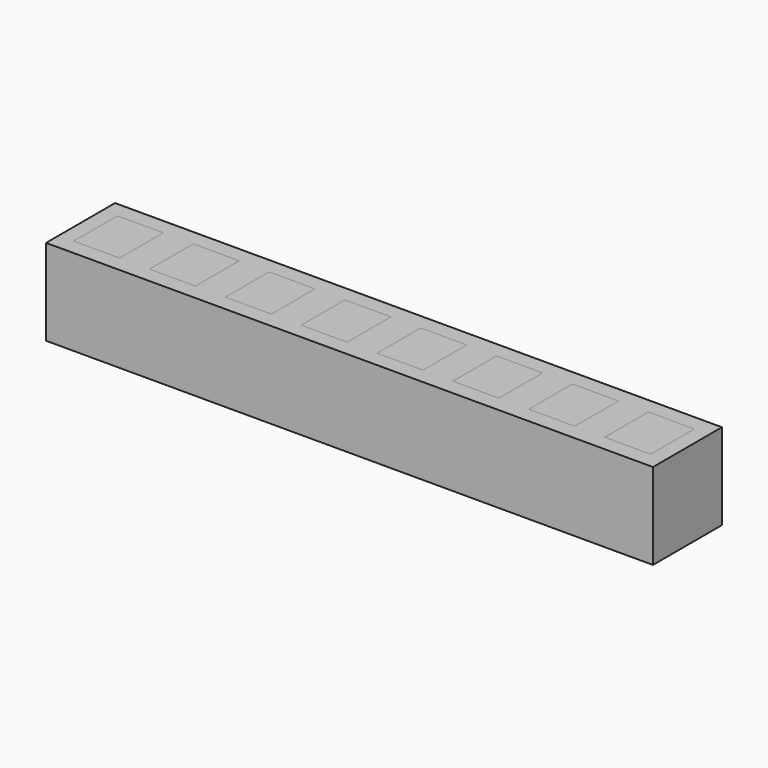
from build123d import *

# Parameters (mm, degrees)
F0_W      = 5.588
F0_H      = 6.35
F0_W_2    = 3.384714
F0_H_2    = 4.02789
F1_DEPTH  = 6.35
F2_W      = 3.384714
F2_H      = 4.02789
F3_DEPTH  = 5.842
F3_FACE_W = 3.384714
F3_FACE_H = 4.02789
F4_DEPTH  = 0.508
F5_DEPTH  = 6.35
F6_W      = 3.384714
F6_H      = 4.02789
F7_DEPTH  = 1.27


with BuildPart() as f1:
    # F0 (on Top) → F1 (new body)
    with BuildSketch(Plane.XY):
        Rectangle(F0_W, F0_H)
        Rectangle(F0_W_2, F0_H_2, mode=Mode.SUBTRACT)
    extrude(amount=F1_DEPTH)


with BuildPart() as f3:
    # F2 (on face) → F3 (new body)
    with BuildSketch(Plane.XY.offset(6.35)):
        Rectangle(F2_W, F2_H)
    extrude(amount=-F3_DEPTH)


with BuildPart() as f4:
    # F3_face (on face) → F4 (new body)
    with BuildSketch(Plane(origin=(0, 0, 0.508), x_dir=(1, 0, 0), z_dir=(0, 0, -1))):
        Rectangle(F3_FACE_W, F3_FACE_H)
    extrude(amount=F4_DEPTH)


with BuildPart() as f5:
    # F0 (on Top) → F5 (new body)
    with BuildSketch(Plane.XY):
        Rectangle(F0_W, F0_H)
        Rectangle(F0_W_2, F0_H_2, mode=Mode.SUBTRACT)
        with Locations((5.588, 0)):
            Rectangle(F0_W, F0_H)
        with Locations((5.588, 0)):
            Rectangle(F0_W_2, F0_H_2, mode=Mode.SUBTRACT)
        with Locations((11.176, 0)):
            Rectangle(F0_W, F0_H)
        with Locations((11.176, 0)):
            Rectangle(F0_W_2, F0_H_2, mode=Mode.SUBTRACT)
        with Locations((16.764, 0)):
            Rectangle(F0_W, F0_H)
        with Locations((16.764, 0)):
            Rectangle(F0_W_2, F0_H_2, mode=Mode.SUBTRACT)
        with Locations((22.352, 0)):
            Rectangle(F0_W, F0_H)
        with Locations((22.352, 0)):
            Rectangle(F0_W_2, F0_H_2, mode=Mode.SUBTRACT)
        with Locations((27.94, 0)):
            Rectangle(F0_W, F0_H)
        with Locations((27.94, 0)):
            Rectangle(F0_W_2, F0_H_2, mode=Mode.SUBTRACT)
        with Locations((33.528, 0)):
            Rectangle(F0_W, F0_H)
        with Locations((33.528, 0)):
            Rectangle(F0_W_2, F0_H_2, mode=Mode.SUBTRACT)
        with Locations((39.116, 0)):
            Rectangle(F0_W, F0_H)
        with Locations((39.116, 0)):
            Rectangle(F0_W_2, F0_H_2, mode=Mode.SUBTRACT)
    extrude(amount=F5_DEPTH)


with BuildPart() as f7:
    # F6 (on face) → F7 (new body)
    with BuildSketch(Plane.XY.offset(6.35)):
        with Locations((5.588, 0)):
            Rectangle(F6_W, F6_H)
        with Locations((11.176, 0)):
            Rectangle(F6_W, F6_H)
        with Locations((16.764, 0)):
            Rectangle(F6_W, F6_H)
        with Locations((22.352, 0)):
            Rectangle(F6_W, F6_H)
        with Locations((27.94, 0)):
            Rectangle(F6_W, F6_H)
        with Locations((33.528, 0)):
            Rectangle(F6_W, F6_H)
        with Locations((39.116, 0)):
            Rectangle(F6_W, F6_H)
    extrude(amount=-F7_DEPTH)


solid = Compound([f1.part, f3.part, f4.part, f5.part, f7.part])
